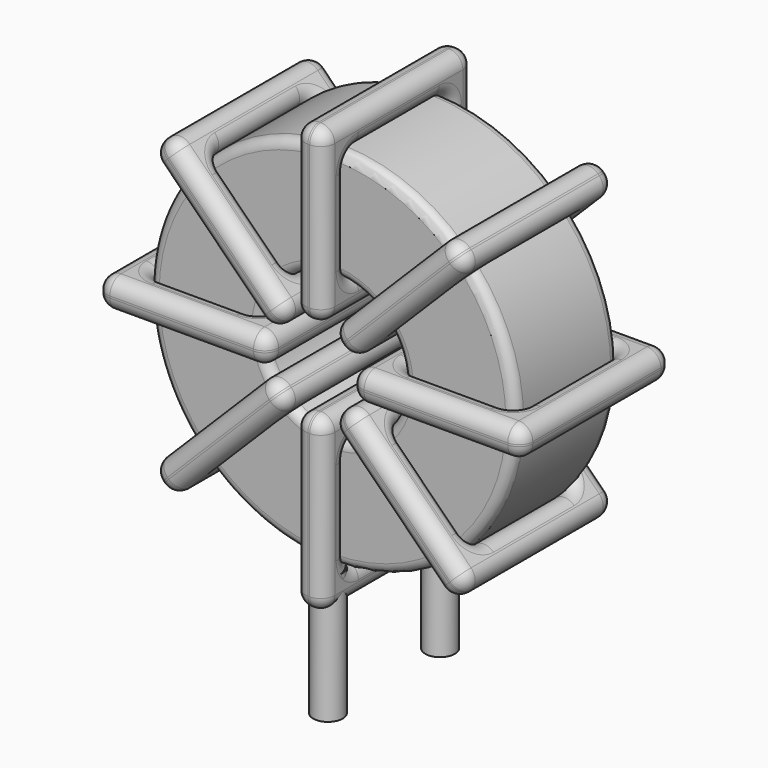
from build123d import *

# Parameters (mm, degrees)
SKETCH001_R       = 0.75
PAD001_DEPTH      = 1.5
PAD001_DEPTH_BACK = 5
SKETCH_R          = 9.295
SKETCH_R_2        = 3.598333
PAD_DEPTH         = 3.265
FILLET_R          = 0.5
SKETCH003_W       = 8.696667
SKETCH003_H       = 9.53
SKETCH003_W_2     = 5.696667
SKETCH003_H_2     = 6.53
PAD002_DEPTH      = 0.75
FILLET001_R       = 0.705
SKETCH004_W       = 8.696667
SKETCH004_H       = 9.53
SKETCH004_W_2     = 5.696667
SKETCH004_H_2     = 6.53
PAD003_DEPTH      = 0.75
FILLET002_R       = 0.705
SKETCH005_W       = 8.696667
SKETCH005_H       = 9.53
SKETCH005_W_2     = 5.696667
SKETCH005_H_2     = 6.53
PAD004_DEPTH      = 0.75
FILLET003_R       = 0.705
SKETCH006_W       = 8.696667
SKETCH006_H       = 9.53
SKETCH006_W_2     = 5.696667
SKETCH006_H_2     = 6.53
PAD005_DEPTH      = 0.75
FILLET004_R       = 0.705


with BuildPart() as pad001:
    # Sketch001 → Pad001 (new body, two sides)
    with BuildSketch(Plane.XY.offset(2)) as pad001_sk:
        Circle(SKETCH001_R)
        with Locations((0, -7.11)):
            Circle(SKETCH001_R)
    extrude(amount=PAD001_DEPTH)
    extrude(pad001_sk.sketch, amount=-PAD001_DEPTH_BACK)


with BuildPart() as fillet_body:
    # Sketch → Pad (new body, symmetric)
    with BuildSketch(Plane.XZ.offset(3.555)):
        with Locations((0, 12.795)):
            Circle(SKETCH_R)
        with Locations((0, 12.795)):
            Circle(SKETCH_R_2, mode=Mode.SUBTRACT)
    extrude(amount=PAD_DEPTH, both=True)

    # Fillet
    fillet_edges = [fillet_body.edges().sort_by_distance(p)[0] for p in [
        (-3.598333, -6.82, 12.795),
        (-9.295, -6.82, 12.795),
        (-9.295, -0.29, 12.795),
    ]]
    fillet(fillet_edges, radius=FILLET_R)


with BuildPart() as fillet001:
    # Sketch003 → Pad002 (new body, symmetric)
    with BuildSketch(Plane(origin=(0, 1.21, 12.795), x_dir=(1, 0, 0), z_dir=(0, 0, -1))):
        with Locations((-6.446667, 4.765)):
            Rectangle(SKETCH003_W, SKETCH003_H)
        with Locations((-6.446667, 4.765)):
            Rectangle(SKETCH003_W_2, SKETCH003_H_2, mode=Mode.SUBTRACT)
        with Locations((6.446667, 4.765)):
            Rectangle(SKETCH003_W, SKETCH003_H)
        with Locations((6.446667, 4.765)):
            Rectangle(SKETCH003_W_2, SKETCH003_H_2, mode=Mode.SUBTRACT)
    extrude(amount=PAD002_DEPTH, both=True)

    # Fillet001
    fillet001_edges = [fillet001.edges().sort_by_distance(p)[0] for p in [
        (9.295, -6.82, 12.795),
        (9.295, -0.29, 12.795),
        (9.295, -3.555, 13.545),
        (9.295, -3.555, 12.045),
        (10.795, 1.21, 12.795),
        (2.098333, 1.21, 12.795),
        (6.446667, 1.21, 13.545),
        (6.446667, 1.21, 12.045),
        (2.098333, -8.32, 12.795),
        (2.098333, -3.555, 13.545),
        (2.098333, -3.555, 12.045),
        (-9.295, -6.82, 12.795),
        (-3.598333, -6.82, 12.795),
        (-6.446667, -6.82, 13.545),
        (-6.446667, -6.82, 12.045),
        (-3.598333, -0.29, 12.795),
        (-3.598333, -3.555, 13.545),
        (-3.598333, -3.555, 12.045),
        (-2.098333, 1.21, 12.795),
        (-10.795, 1.21, 12.795),
        (-6.446667, 1.21, 13.545),
        (-6.446667, 1.21, 12.045),
        (-10.795, -8.32, 12.795),
        (-10.795, -3.555, 13.545),
        (-10.795, -3.555, 12.045),
        (3.598333, -6.82, 12.795),
        (6.446667, -6.82, 13.545),
        (6.446667, -6.82, 12.045),
        (-9.295, -0.29, 12.795),
        (-9.295, -3.555, 13.545),
        (-9.295, -3.555, 12.045),
        (-6.446667, -0.29, 13.545),
        (-6.446667, -0.29, 12.045),
        (-2.098333, -8.32, 12.795),
        (-6.446667, -8.32, 13.545),
        (-6.446667, -8.32, 12.045),
        (-2.098333, -3.555, 13.545),
        (-2.098333, -3.555, 12.045),
        (10.795, -8.32, 12.795),
        (6.446667, -8.32, 13.545),
        (6.446667, -8.32, 12.045),
        (10.795, -3.555, 13.545),
        (10.795, -3.555, 12.045),
        (3.598333, -0.29, 12.795),
        (3.598333, -3.555, 13.545),
        (3.598333, -3.555, 12.045),
        (6.446667, -0.29, 13.545),
        (6.446667, -0.29, 12.045),
    ]]
    fillet(fillet001_edges, radius=FILLET001_R)


with BuildPart() as fillet002:
    # Sketch004 → Pad003 (new body, symmetric)
    with BuildSketch(Plane(origin=(0, 1.21, 12.795), x_dir=(0.707108, 0, 0.707106), z_dir=(0.707106, 0, -0.707108))):
        with Locations((-6.446667, 4.765)):
            Rectangle(SKETCH004_W, SKETCH004_H)
        with Locations((-6.446667, 4.765)):
            Rectangle(SKETCH004_W_2, SKETCH004_H_2, mode=Mode.SUBTRACT)
        with Locations((6.446667, 4.765)):
            Rectangle(SKETCH004_W, SKETCH004_H)
        with Locations((6.446667, 4.765)):
            Rectangle(SKETCH004_W_2, SKETCH004_H_2, mode=Mode.SUBTRACT)
    extrude(amount=PAD003_DEPTH, both=True)

    # Fillet002
    fillet002_edges = [fillet002.edges().sort_by_distance(p)[0] for p in [
        (-6.572565, -6.82, 6.22245),
        (-2.544409, -0.29, 10.250597),
        (-5.088816, -0.29, 8.766854),
        (-4.028158, -0.29, 7.706193),
        (-7.633227, -8.32, 5.161791),
        (-7.633227, 1.21, 5.161791),
        (-8.163556, -3.555, 5.692122),
        (-7.102897, -3.555, 4.63146),
        (-1.483747, -8.32, 11.311256),
        (-5.088816, 1.21, 8.766854),
        (-4.028158, 1.21, 7.706193),
        (2.544409, -6.82, 15.339403),
        (6.572565, -6.82, 19.36755),
        (4.028158, -6.82, 17.883807),
        (5.088816, -6.82, 16.823146),
        (6.572565, -0.29, 19.36755),
        (6.042236, -3.555, 19.897881),
        (7.102895, -3.555, 18.837219),
        (1.483747, 1.21, 14.278744),
        (1.483747, -8.32, 14.278744),
        (0.953418, -3.555, 14.809075),
        (2.014077, -3.555, 13.748413),
        (7.633227, 1.21, 20.428209),
        (4.028158, 1.21, 17.883807),
        (5.088816, 1.21, 16.823146),
        (-6.572565, -0.29, 6.22245),
        (-7.102895, -3.555, 6.752781),
        (-6.042236, -3.555, 5.692119),
        (2.544409, -0.29, 15.339403),
        (2.014079, -3.555, 15.869734),
        (3.074738, -3.555, 14.809072),
        (4.028158, -0.29, 17.883807),
        (5.088816, -0.29, 16.823146),
        (7.633227, -8.32, 20.428209),
        (7.102897, -3.555, 20.95854),
        (8.163556, -3.555, 19.897878),
        (4.028158, -8.32, 17.883807),
        (5.088816, -8.32, 16.823146),
        (-1.483747, 1.21, 11.311256),
        (-2.014077, -3.555, 11.841587),
        (-0.953418, -3.555, 10.780925),
        (-5.088816, -8.32, 8.766854),
        (-4.028158, -8.32, 7.706193),
        (-2.544409, -6.82, 10.250597),
        (-5.088816, -6.82, 8.766854),
        (-4.028158, -6.82, 7.706193),
        (-3.074738, -3.555, 10.780928),
        (-2.014079, -3.555, 9.720266),
    ]]
    fillet(fillet002_edges, radius=FILLET002_R)


with BuildPart() as fillet003:
    # Sketch005 → Pad004 (new body, symmetric)
    with BuildSketch(Plane(origin=(0, 1.21, 12.795), x_dir=(0.707108, 0, -0.707106), z_dir=(-0.707106, 0, -0.707108))):
        with Locations((-6.446667, 4.765)):
            Rectangle(SKETCH005_W, SKETCH005_H)
        with Locations((-6.446667, 4.765)):
            Rectangle(SKETCH005_W_2, SKETCH005_H_2, mode=Mode.SUBTRACT)
        with Locations((6.446667, 4.765)):
            Rectangle(SKETCH005_W, SKETCH005_H)
        with Locations((6.446667, 4.765)):
            Rectangle(SKETCH005_W_2, SKETCH005_H_2, mode=Mode.SUBTRACT)
    extrude(amount=PAD004_DEPTH, both=True)

    # Fillet003
    fillet003_edges = [fillet003.edges().sort_by_distance(p)[0] for p in [
        (-2.544409, -6.82, 15.339403),
        (-2.544409, -0.29, 15.339403),
        (-2.014079, -3.555, 15.869734),
        (-3.074738, -3.555, 14.809072),
        (-7.633227, -8.32, 20.428209),
        (-7.633227, 1.21, 20.428209),
        (-7.102897, -3.555, 20.95854),
        (-8.163556, -3.555, 19.897878),
        (-1.483747, -8.32, 14.278744),
        (-4.028158, 1.21, 17.883807),
        (-5.088816, 1.21, 16.823146),
        (2.544409, -6.82, 10.250597),
        (6.572565, -6.82, 6.22245),
        (5.088816, -6.82, 8.766854),
        (4.028158, -6.82, 7.706193),
        (6.572565, -0.29, 6.22245),
        (7.102895, -3.555, 6.752781),
        (6.042236, -3.555, 5.692119),
        (1.483747, -8.32, 11.311256),
        (7.633227, -8.32, 5.161791),
        (5.088816, -8.32, 8.766854),
        (4.028158, -8.32, 7.706193),
        (7.633227, 1.21, 5.161791),
        (8.163556, -3.555, 5.692122),
        (7.102897, -3.555, 4.63146),
        (-6.572565, -6.82, 19.36755),
        (-4.028158, -6.82, 17.883807),
        (-5.088816, -6.82, 16.823146),
        (2.544409, -0.29, 10.250597),
        (3.074738, -3.555, 10.780928),
        (2.014079, -3.555, 9.720266),
        (5.088816, -0.29, 8.766854),
        (4.028158, -0.29, 7.706193),
        (1.483747, 1.21, 11.311256),
        (5.088816, 1.21, 8.766854),
        (4.028158, 1.21, 7.706193),
        (2.014077, -3.555, 11.841587),
        (0.953418, -3.555, 10.780925),
        (-1.483747, 1.21, 14.278744),
        (-0.953418, -3.555, 14.809075),
        (-2.014077, -3.555, 13.748413),
        (-4.028158, -8.32, 17.883807),
        (-5.088816, -8.32, 16.823146),
        (-6.572565, -0.29, 19.36755),
        (-6.042236, -3.555, 19.897881),
        (-7.102895, -3.555, 18.837219),
        (-4.028158, -0.29, 17.883807),
        (-5.088816, -0.29, 16.823146),
    ]]
    fillet(fillet003_edges, radius=FILLET003_R)


with BuildPart() as fillet004:
    # Sketch006 → Pad005 (new body, symmetric)
    with BuildSketch(Plane(origin=(0, 1.21, 12.795), x_dir=(0, 0, 1), z_dir=(1, 0, 0))):
        with Locations((-6.446667, 4.765)):
            Rectangle(SKETCH006_W, SKETCH006_H)
        with Locations((-6.446667, 4.765)):
            Rectangle(SKETCH006_W_2, SKETCH006_H_2, mode=Mode.SUBTRACT)
        with Locations((6.446667, 4.765)):
            Rectangle(SKETCH006_W, SKETCH006_H)
        with Locations((6.446667, 4.765)):
            Rectangle(SKETCH006_W_2, SKETCH006_H_2, mode=Mode.SUBTRACT)
    extrude(amount=PAD005_DEPTH, both=True)

    # Fillet004
    fillet004_edges = [fillet004.edges().sort_by_distance(p)[0] for p in [
        (0, -6.82, 9.196667),
        (0, -0.29, 9.196667),
        (-0.75, -3.555, 9.196667),
        (0.75, -3.555, 9.196667),
        (0, -8.32, 2),
        (0, -8.32, 10.696667),
        (-0.75, -8.32, 6.348333),
        (0.75, -8.32, 6.348333),
        (0, 1.21, 10.696667),
        (-0.75, -3.555, 10.696667),
        (0.75, -3.555, 10.696667),
        (0, -6.82, 16.393333),
        (0, -6.82, 22.09),
        (-0.75, -6.82, 19.241667),
        (0.75, -6.82, 19.241667),
        (0, -0.29, 22.09),
        (-0.75, -3.555, 22.09),
        (0.75, -3.555, 22.09),
        (0, -8.32, 14.893333),
        (0, -8.32, 23.59),
        (-0.75, -8.32, 19.241667),
        (0.75, -8.32, 19.241667),
        (0, 1.21, 23.59),
        (-0.75, -3.555, 23.59),
        (0.75, -3.555, 23.59),
        (0, -6.82, 3.5),
        (-0.75, -6.82, 6.348333),
        (0.75, -6.82, 6.348333),
        (0, -0.29, 16.393333),
        (-0.75, -3.555, 16.393333),
        (0.75, -3.555, 16.393333),
        (-0.75, -0.29, 19.241667),
        (0.75, -0.29, 19.241667),
        (0, 1.21, 14.893333),
        (-0.75, 1.21, 19.241667),
        (0.75, 1.21, 19.241667),
        (-0.75, -3.555, 14.893333),
        (0.75, -3.555, 14.893333),
        (0, 1.21, 2),
        (-0.75, 1.21, 6.348333),
        (0.75, 1.21, 6.348333),
        (-0.75, -3.555, 2),
        (0.75, -3.555, 2),
        (0, -0.29, 3.5),
        (-0.75, -3.555, 3.5),
        (0.75, -3.555, 3.5),
        (-0.75, -0.29, 6.348333),
        (0.75, -0.29, 6.348333),
    ]]
    fillet(fillet004_edges, radius=FILLET004_R)


solid = Compound([pad001.part, fillet_body.part, fillet001.part, fillet002.part, fillet003.part, fillet004.part])
